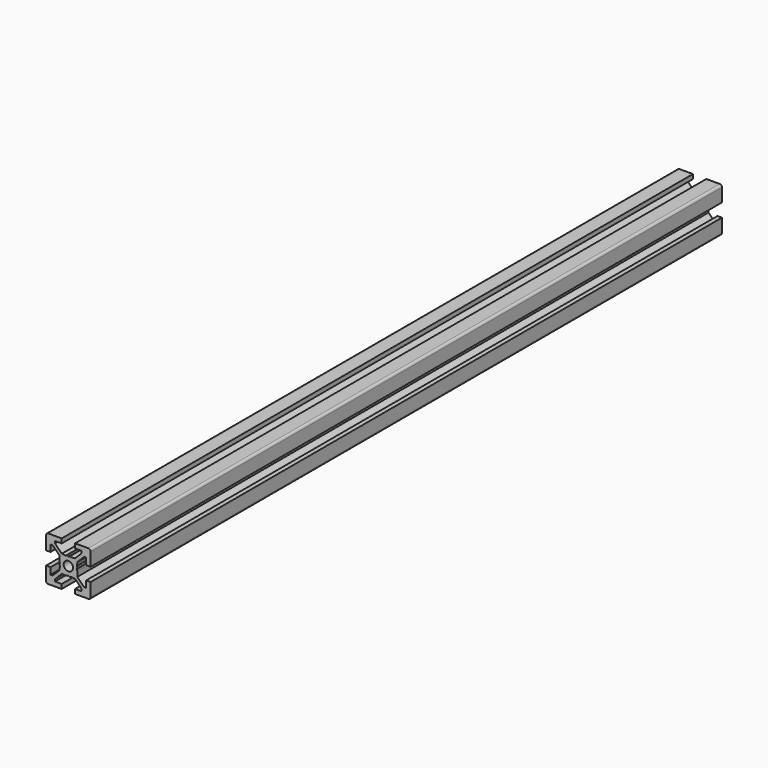
from build123d import *

# Parameters (mm, degrees)
F0_R     = 2.1
F1_DEPTH = 177


with BuildPart() as f1:
    # F0 (on Front) → F1 (new body, symmetric)
    with BuildSketch(Plane.XZ):
        with BuildLine():
            Line((-5.999985, -8.000007), (-5.999985, -7.060667))
            Line((-5.999985, -7.060667), (-2.939325, -4.000007))
            Line((-2.939325, -4.000007), (-0.653575, -4.000007))
            ThreePointArc((-0.653575, -4.000007), (-0.524165, -3.982969), (-0.403575, -3.933019))
            Line((-0.403575, -3.933019), (1.5e-05, -3.700007))
            Line((1.5e-05, -3.700007), (0.403605, -3.933019))
            ThreePointArc((0.403605, -3.933019), (0.653605, -4.000007), (0.903605, -3.933019))
            Line((0.903605, -3.933019), (1.218901, -3.750983))
            Line((1.218901, -3.750983), (2.500015, -4.000007))
            Line((2.500015, -4.000007), (2.939355, -4.000007))
            Line((2.939355, -4.000007), (6.000015, -7.060667))
            Line((6.000015, -7.060667), (6.000015, -8.000007))
            Line((6.000015, -8.000007), (3.000015, -8.000007))
            Line((3.000015, -8.000007), (3.000015, -10.000007))
            Line((3.000015, -10.000007), (9.000015, -10.000007))
            ThreePointArc((9.000015, -10.000007), (9.707122, -9.707113), (10.000015, -9.000007))
            Line((10.000015, -9.000007), (10.000015, -3.000007))
            Line((10.000015, -3.000007), (8.000015, -3.000007))
            Line((8.000015, -3.000007), (8.000015, -6.000007))
            Line((8.000015, -6.000007), (7.060675, -6.000007))
            Line((7.060675, -6.000007), (4.000015, -2.939346))
            Line((4.000015, -2.939346), (4.000015, -0.653596))
            ThreePointArc((4.000015, -0.653596), (3.982978, -0.524187), (3.933028, -0.403596))
            Line((3.933028, -0.403596), (3.700015, -7e-06))
            Line((3.700015, -7e-06), (3.933028, 0.403583))
            ThreePointArc((3.933028, 0.403583), (4.000015, 0.653583), (3.933028, 0.903583))
            Line((3.933028, 0.903583), (3.750992, 1.218879))
            Line((3.750992, 1.218879), (4.000015, 2.499993))
            Line((4.000015, 2.499993), (4.000015, 2.939333))
            Line((4.000015, 2.939333), (7.060675, 5.999993))
            Line((7.060675, 5.999993), (8.000015, 5.999993))
            Line((8.000015, 5.999993), (8.000015, 2.999993))
            Line((8.000015, 2.999993), (10.000015, 2.999993))
            Line((10.000015, 2.999993), (10.000015, 8.999993))
            ThreePointArc((10.000015, 8.999993), (9.707122, 9.7071), (9.000015, 9.999993))
            Line((9.000015, 9.999993), (3.000015, 9.999993))
            Line((3.000015, 9.999993), (3.000015, 7.999993))
            Line((3.000015, 7.999993), (6.000015, 7.999993))
            Line((6.000015, 7.999993), (6.000015, 7.060654))
            Line((6.000015, 7.060654), (2.939355, 3.999993))
            Line((2.939355, 3.999993), (0.653605, 3.999993))
            ThreePointArc((0.653605, 3.999993), (0.524195, 3.982956), (0.403605, 3.933006))
            Line((0.403605, 3.933006), (1.5e-05, 3.699993))
            Line((1.5e-05, 3.699993), (-0.403575, 3.933006))
            ThreePointArc((-0.403575, 3.933006), (-0.653575, 3.999993), (-0.903575, 3.933006))
            Line((-0.903575, 3.933006), (-1.218871, 3.75097))
            Line((-1.218871, 3.75097), (-2.499985, 3.999993))
            Line((-2.499985, 3.999993), (-2.939325, 3.999993))
            Line((-2.939325, 3.999993), (-5.999985, 7.060654))
            Line((-5.999985, 7.060654), (-5.999985, 7.999993))
            Line((-5.999985, 7.999993), (-2.999985, 7.999993))
            Line((-2.999985, 7.999993), (-2.999985, 9.999993))
            Line((-2.999985, 9.999993), (-8.999985, 9.999993))
            ThreePointArc((-8.999985, 9.999993), (-9.707092, 9.7071), (-9.999985, 8.999993))
            Line((-9.999985, 8.999993), (-9.999985, 2.999993))
            Line((-9.999985, 2.999993), (-7.999985, 2.999993))
            Line((-7.999985, 2.999993), (-7.999985, 5.999993))
            Line((-7.999985, 5.999993), (-7.060645, 5.999993))
            Line((-7.060645, 5.999993), (-3.999985, 2.939333))
            Line((-3.999985, 2.939333), (-3.999985, 0.653583))
            ThreePointArc((-3.999985, 0.653583), (-3.982948, 0.524174), (-3.932998, 0.403583))
            Line((-3.932998, 0.403583), (-3.699985, -7e-06))
            Line((-3.699985, -7e-06), (-3.932998, -0.403596))
            ThreePointArc((-3.932998, -0.403596), (-3.999985, -0.653596), (-3.932998, -0.903596))
            Line((-3.932998, -0.903596), (-3.750962, -1.218892))
            Line((-3.750962, -1.218892), (-3.999985, -2.500007))
            Line((-3.999985, -2.500007), (-3.999985, -2.939346))
            Line((-3.999985, -2.939346), (-7.060645, -6.000007))
            Line((-7.060645, -6.000007), (-7.999985, -6.000007))
            Line((-7.999985, -6.000007), (-7.999985, -3.000007))
            Line((-7.999985, -3.000007), (-9.999985, -3.000007))
            Line((-9.999985, -3.000007), (-9.999985, -9.000007))
            ThreePointArc((-9.999985, -9.000007), (-9.707092, -9.707113), (-8.999985, -10.000007))
            Line((-8.999985, -10.000007), (-2.999985, -10.000007))
            Line((-2.999985, -10.000007), (-2.999985, -8.000007))
            Line((-2.999985, -8.000007), (-5.999985, -8.000007))
        make_face()
        with Locations((1.5e-05, -7e-06)):
            Circle(F0_R, mode=Mode.SUBTRACT)
    extrude(amount=F1_DEPTH, both=True)


solid = f1.part
